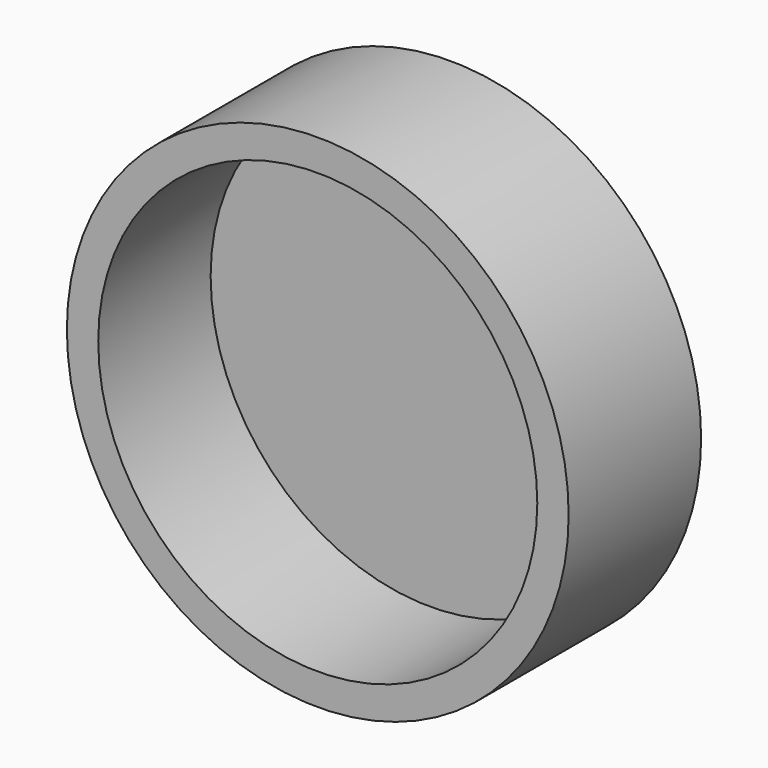
from build123d import *

# Parameters (mm, degrees)
F0_R          = 50.8
F1_DEPTH      = 16.764
F1_DEPTH_BACK = 16.764
F2_R          = 44.45
F3_DEPTH      = 28.448


with BuildPart() as f1:
    # F0 (on Front) → F1 (new body, two sides)
    with BuildSketch(Plane.XZ) as f1_sk:
        Circle(F0_R)
    extrude(amount=F1_DEPTH)
    extrude(f1_sk.sketch, amount=-F1_DEPTH_BACK)

    # F2 (on face) → F3 (cut)
    with BuildSketch(Plane.XZ.offset(16.764)):
        Circle(F2_R)
    extrude(amount=-F3_DEPTH, mode=Mode.SUBTRACT)


solid = f1.part
